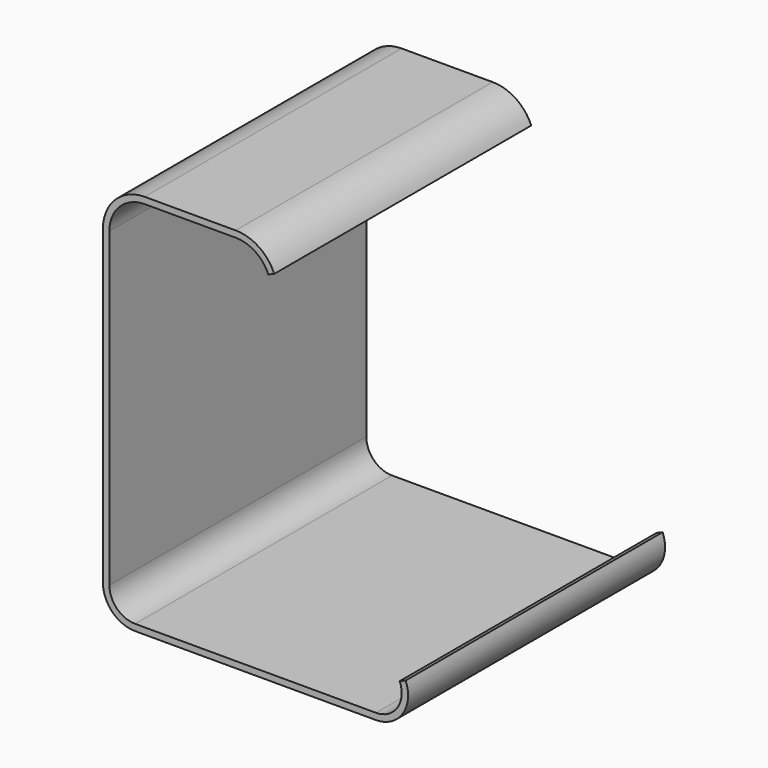
from build123d import *

# Parameters (mm, degrees)
F1_DEPTH = 500
F2_W     = 500
F2_H     = 531.6666666667
F3_DEPTH = 25


with BuildPart() as f1:
    # F0 (on Front) → F1 (new body)
    with BuildSketch(Plane.XZ):
        with BuildLine():
            Line((-43.3333333333, 300), (-185, 300))
            ThreePointArc((-185, 300), (-230.9619407771, 280.9619407771), (-250, 235))
            Line((-250, 235), (-250, -250))
            ThreePointArc((-250, -250), (-235.3553390593, -285.3553390593), (-200, -300))
            Line((-200, -300), (175, -300))
            ThreePointArc((175, -300), (216.6025147169, -277.7350098113), (221.1538461538, -230.7692307692))
            Line((221.1538461538, -230.7692307692), (16.6666666667, 260))
            ThreePointArc((16.6666666667, 260), (-7.2778205787, 289.083269132), (-43.3333333333, 300))
        make_face()
        with BuildLine():
            ThreePointArc((-240, 235), (-223.8908729653, 273.8908729653), (-185, 290))
            Line((-185, 290), (-43.3333333333, 290))
            ThreePointArc((-43.3333333333, 290), (-12.8248225409, 280.7627661886), (7.4358974359, 256.1538461538))
            Line((7.4358974359, 256.1538461538), (211.9230769231, -234.6153846154))
            ThreePointArc((211.9230769231, -234.6153846154), (208.2820117735, -272.188007849), (175, -290))
            Line((175, -290), (-200, -290))
            ThreePointArc((-200, -290), (-228.2842712475, -278.2842712475), (-240, -250))
            Line((-240, -250), (-240, 235))
        make_face(mode=Mode.SUBTRACT)
    extrude(amount=F1_DEPTH)

    # F2 (on face) → F3 (cut)
    with BuildSketch(Plane(origin=(106.5088757396, 0, 44.3786982249), x_dir=(0, 1, 0), z_dir=(0.9230769231, 0, 0.3846153846))):
        with Locations((-250, -32.2435897436)):
            Rectangle(F2_W, F2_H)
    extrude(amount=-F3_DEPTH, mode=Mode.SUBTRACT)


solid = f1.part
